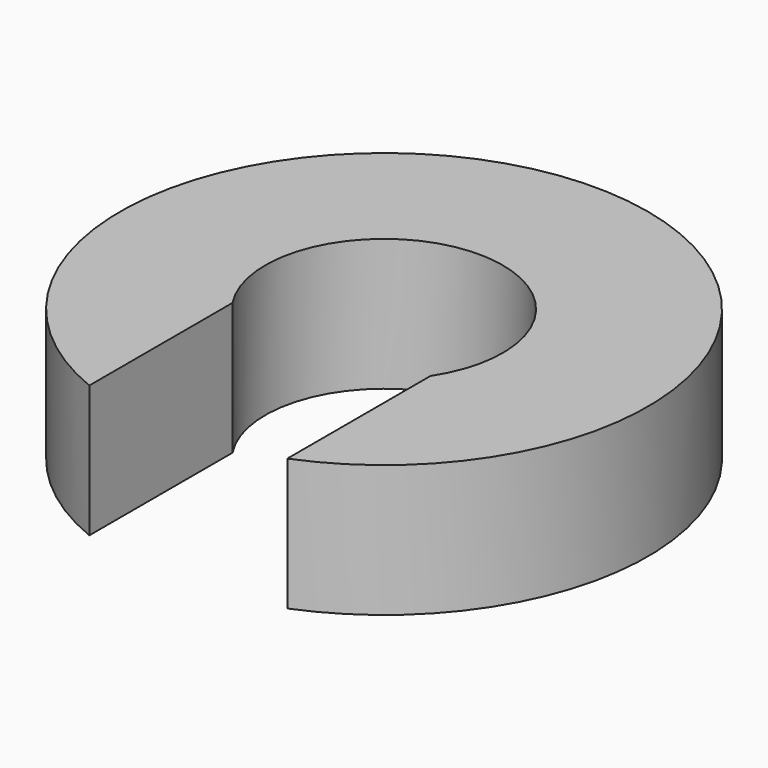
from build123d import *

# Parameters (mm, degrees)
PAD_DEPTH = 2


with BuildPart() as part:
    # Sketch → Pad (new body)
    with BuildSketch(Plane.XY):
        with BuildLine():
            ThreePointArc((1.5, -0.994987), (0, 1.8), (-1.5, -0.994987))
            Line((-1.5, -0.994987), (-1.5, -3.708099))
            ThreePointArc((1.5, -3.708099), (0, 4), (-1.5, -3.708099))
            Line((1.5, -0.994987), (1.5, -3.708099))
        make_face()
    extrude(amount=PAD_DEPTH)


solid = part.part
